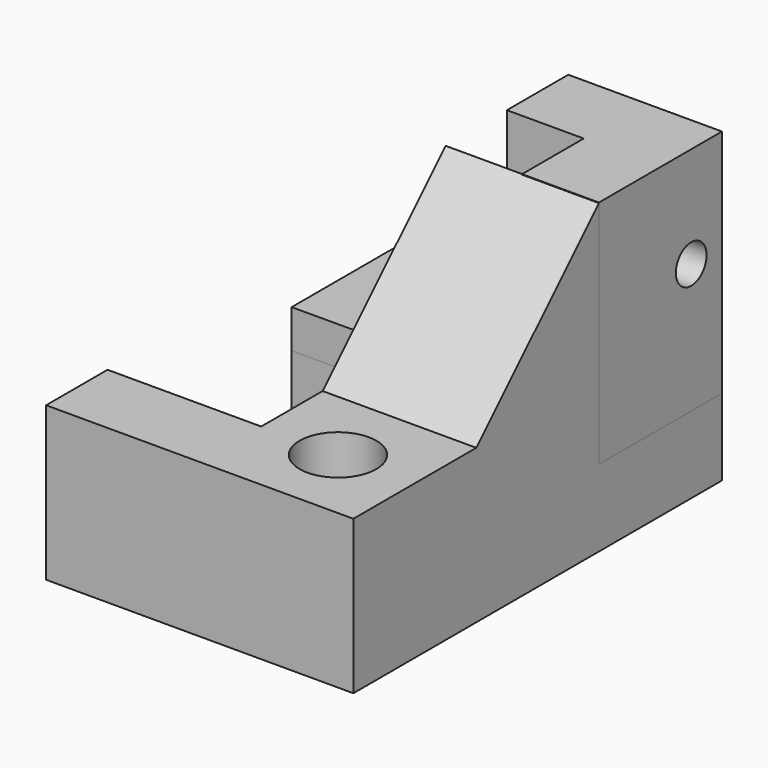
from build123d import *

# Parameters (mm, degrees)
F0_W      = 50.8
F0_H      = 25.4
F1_DEPTH  = 25.4
F2_W      = 25.4
F2_H      = 12.7
F2_R      = 6.35
F3_DEPTH  = 25.401
F6_DEPTH  = 25.4
F9_DEPTH  = 38.1
F12_DEPTH = 12.7
F14_DEPTH = 6.35
F15_R     = 3.175
F16_DEPTH = 25.4096862922
F17_DEPTH = 38.1322003911


with BuildPart() as f1:
    # F0 (on Front) → F1 (new body)
    with BuildSketch(Plane.XZ):
        with Locations((-0.7526604459, -33.2124557674)):
            Rectangle(F0_W, F0_H)
    extrude(amount=F1_DEPTH)

    # F2 (on face) → F3 (cut, through all)
    with BuildSketch(Plane.XY.offset(-20.5124557674)):
        with Locations((-13.4526604459, -6.35)):
            Rectangle(F2_W, F2_H)
        with Locations((11.9473395541, -12.7)):
            Circle(F2_R)
    extrude(amount=-F3_DEPTH, mode=Mode.SUBTRACT)

    # F5 (on offset) → F6 (join)
    with BuildSketch(Plane(origin=(-0.7526604459, 0, 0), x_dir=(0, -1, 0), z_dir=(-1, 0, 0))):
        Polygon((0, -20.5436561584), (-25.4, 4.8563438416), (-25.4, -33.2436561584), (12.6998899505, -33.2436561584), align=None)
    extrude(amount=-F6_DEPTH)

    # F8 (on offset) → F9 (join)
    with BuildSketch(Plane.XY.offset(4.8875442326)):
        Polygon((-0.7548585206, 50.7596358657), (-0.7548585206, 38.0798179328), (11.9451414794, 38.0798179328), (11.9451414794, 25.3414772451), (24.6538277715, 25.3411643207), (24.6473395541, 50.7596358657), align=None)
    extrude(amount=-F9_DEPTH)

    # F11 (on offset) → F12 (join)
    with BuildSketch(Plane.XY.offset(-45.9124557674)):
        Polygon((24.6473395541, 50.7596358657), (-0.7548585206, 50.7596358657), (-26.1525642636, 50.7596358657), (-26.1525642636, 25.3394645815), (-7.1026604459, 25.4), (-7.1026604459, -12.7), (-0.7526574773, -12.7), (-0.7526574773, 0), (24.6473395541, 0), align=None)
    extrude(amount=F12_DEPTH)

    # F13 (on face) → F14 (join)
    with BuildSketch(Plane.XY.offset(-33.2124557674)):
        Polygon((-13.4525642636, 25.3798217309), (-13.4525642636, 50.7596358657), (-26.1525642636, 50.7596358657), (-26.1525642636, 25.3394645815), align=None)
    extrude(amount=F14_DEPTH)

    # F15 (on face) → F16 (cut, through all)
    with BuildSketch(Plane(origin=(-0.7548585206, 0, 0), x_dir=(0, -1, 0), z_dir=(-1, 0, 0))):
        with Locations((-44.4096358657, -11.8173363179)):
            Circle(F15_R)
    extrude(amount=-F16_DEPTH, mode=Mode.SUBTRACT)

    # F17 (cut, through all): a face of the model
    f17_faces = [f1.faces().sort_by_distance(p)[0] for p in [
        (11.9473395541, -10.0049168283, -33.2436561584),
    ]]
    extrude(f17_faces, amount=-F17_DEPTH, mode=Mode.SUBTRACT)


solid = f1.part
